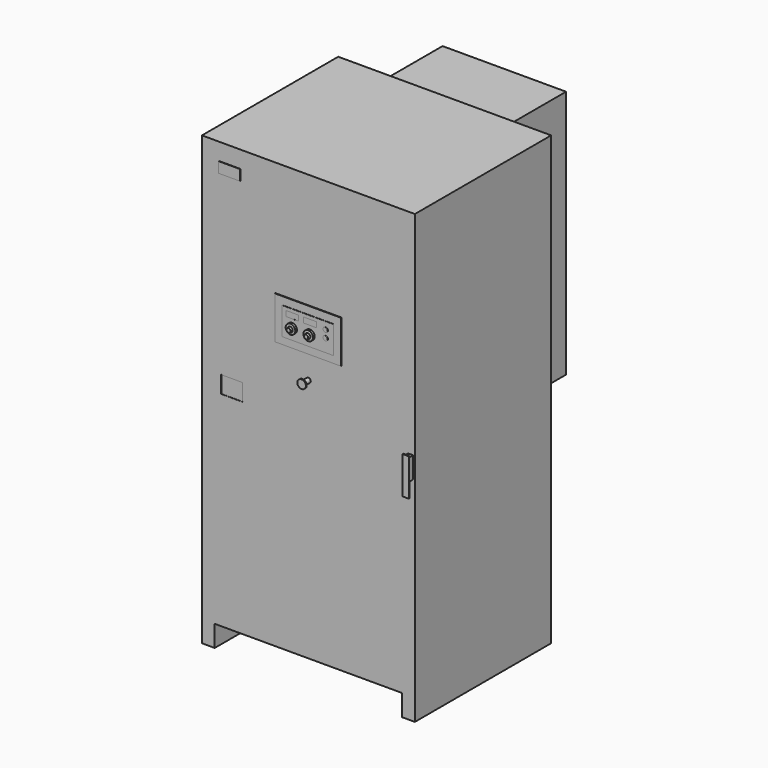
from build123d import *

# Parameters (mm, degrees)
F0_W      = 1000
F0_H      = 2100
F1_DEPTH  = 800
F2_W      = 580
F2_H      = 1170
F3_DEPTH  = 350
F4_R      = 11
F5_DEPTH  = 40
F6_R      = 20
F7_DEPTH  = 5
F8_W      = 310
F8_H      = 200
F9_DEPTH  = 3
F10_W     = 100
F10_H     = 80
F11_DEPTH = 1
F12_W     = 880
F12_H     = 100
F13_DEPTH = 1150.001
F14_W     = 24
F14_H     = 100
F15_DEPTH = 25
F16_W     = 100
F16_H     = 50
F17_DEPTH = 2
F18_W     = 30
F18_H     = 175
F19_DEPTH = 4
F20_W     = 240
F20_H     = 130
F21_DEPTH = 1
F22_W     = 60
F22_H     = 25
F23_DEPTH = 0.1
F29_R     = 11
F30_DEPTH = 1


with BuildPart() as f1:
    # F0 (on Front) → F1 (new body)
    with BuildSketch(Plane.XZ):
        Rectangle(F0_W, F0_H)
    extrude(amount=-F1_DEPTH)

    # F2 (on face) → F3 (join)
    with BuildSketch(Plane(origin=(0, 800, 0), x_dir=(-1, 0, 0), z_dir=(0, 1, 0))):
        with Locations((0, 435)):
            Rectangle(F2_W, F2_H)
    extrude(amount=F3_DEPTH)

    # F4 (on face) → F5 (join)
    with BuildSketch(Plane.XZ):
        with Locations((0, 200)):
            Circle(F4_R)
    extrude(amount=F5_DEPTH)

    # F6 (on face) → F7 (join)
    with BuildSketch(Plane.XZ.offset(40)):
        with Locations((0, 200)):
            Circle(F6_R)
    extrude(amount=-F7_DEPTH)

    # F8 (on face) → F9 (join)
    with BuildSketch(Plane.XZ):
        with Locations((0, 410)):
            Rectangle(F8_W, F8_H)
    extrude(amount=F9_DEPTH)

    # F10 (on face) → F11 (cut)
    with BuildSketch(Plane.XZ):
        with Locations((-360, 50)):
            Rectangle(F10_W, F10_H)
    extrude(amount=-F11_DEPTH, mode=Mode.SUBTRACT)

    # F12 (on face) → F13 (cut, through all)
    with BuildSketch(Plane.XZ):
        with Locations((0, -1000)):
            Rectangle(F12_W, F12_H)
    extrude(amount=-F13_DEPTH, mode=Mode.SUBTRACT)

    # F14 (on face) → F15 (join)
    with BuildSketch(Plane.XZ):
        with Locations((480, 0)):
            Rectangle(F14_W, F14_H)
    extrude(amount=F15_DEPTH)

    # F16 (on face) → F17 (join)
    with BuildSketch(Plane.XZ):
        with Locations((-370, 945)):
            Rectangle(F16_W, F16_H)
    extrude(amount=F17_DEPTH)

    # F18 (on face) → F19 (join)
    with BuildSketch(Plane.XZ.offset(25)):
        with Locations((480, -29.5)):
            Rectangle(F18_W, F18_H)
    extrude(amount=F19_DEPTH)

    # F20 (on face) → F21 (join)
    with BuildSketch(Plane.XZ.offset(3)):
        with Locations((0, 408)):
            Rectangle(F20_W, F20_H)
    extrude(amount=F21_DEPTH)

    # F22 (on face) → F23 (cut)
    with BuildSketch(Plane.XZ.offset(4)):
        with Locations((-73, 444.5)):
            Rectangle(F22_W, F22_H)
        with Locations((10, 444.5)):
            Rectangle(F22_W, F22_H)
    extrude(amount=-F23_DEPTH, mode=Mode.SUBTRACT)

    # F26 (on plane+point) → F27 (revolve)
    with BuildSketch(Plane(origin=(0, 0, 393), x_dir=(1, 0, 0), z_dir=(0, 0, -1))):
        Polygon((-95.5, 4), (-73, 4), (-73, 26), (-83, 26), (-85, 16), (-95.5, 14), align=None)
    revolve(axis=Axis((-73, -17.4706345424, 393), (0, 1, 0)))

    # F26 (on plane+point) → F28 (revolve)
    with BuildSketch(Plane(origin=(0, 0, 393), x_dir=(1, 0, 0), z_dir=(0, 0, -1))):
        Polygon((-12.5, 4), (10, 4), (10, 26), (0, 26), (-2, 16), (-12.5, 14), align=None)
    revolve(axis=Axis((10, -12.9324262962, 393), (0, 1, 0)))

    # F29 (on face) → F30 (join)
    with BuildSketch(Plane.XZ.offset(4)):
        with Locations((83.5474357009, 438)):
            Circle(F29_R)
        with Locations((83.5474357009, 403)):
            Circle(F29_R)
    extrude(amount=F30_DEPTH)


solid = f1.part
